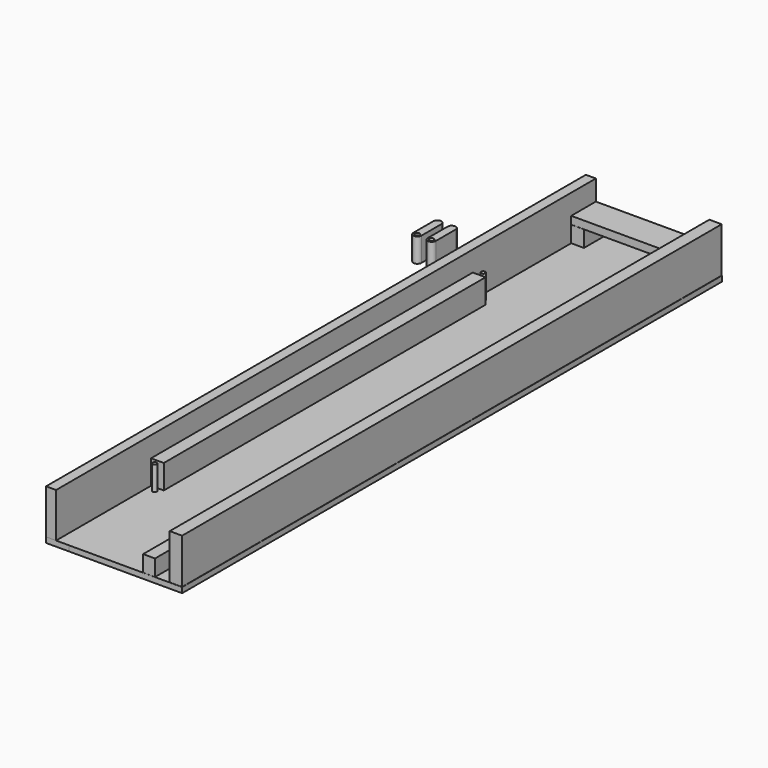
from build123d import *

# Parameters (mm, degrees)
F4_START      = 10.49274
F2_W          = 127.0645558834
F2_H          = 8.4992311895
F4_DEPTH      = 2.33426
F3_W          = 2.2401837632
F3_H          = 3.077831585
F5_DEPTH      = 65.3796
F5_DEPTH_BACK = 61.6966
F0_W          = 2.7783904225
F0_H          = 121.2976649404
F0_W_2        = 2.3746788502
F0_W_3        = 2.2473796271
F0_W_4        = 2.404211089
F0_H_2        = 75.7749117911
F0_W_5        = 13.9418463223
F0_H_3        = 5.8071650565
F0_H_4        = 16.4588093758
F0_H_5        = 15.6432054937
F0_W_6        = 1.8864730373
F0_R          = 0.4426564057
F0_R_2        = 0.4119393831
F6_DEPTH      = 1.016
F7_DEPTH      = 8.382
F8_DEPTH      = 4.5466
F9_DEPTH      = 4.5593
F1_R          = 0.4426564057
F10_DEPTH     = 4.5212
F11_START     = 3.09118
F11_DEPTH     = 1.45542
F12_DEPTH     = 3.0734
F13_DEPTH     = 3.0988


with BuildPart() as f4:
    # F2 (on Right) → F4 (new body)
    with BuildSketch(Plane.YZ.offset(F4_START)):
        with Locations((-1.8238723278, 4.2496155947)):
            Rectangle(F2_W, F2_H)
    extrude(amount=F4_DEPTH)


with BuildPart() as f5:
    # F3 (on Front) → F5 (new body, two sides)
    with BuildSketch(Plane.XZ) as f5_sk:
        with Locations((6.6253291443, 1.5389157925)):
            Rectangle(F3_W, F3_H)
    extrude(amount=F5_DEPTH)
    extrude(f5_sk.sketch, amount=-F5_DEPTH_BACK)


with BuildPart() as f6:
    # F0 (on Top) → F6 (new body)
    with BuildSketch(Plane.XY):
        Polygon((5.4682078771, 55.8997914195), (-8.4736384451, 55.8997914195), (-8.4736384451, 39.4409820437), (-10.8778495342, 39.4409820437), (-10.8778495342, 32.728895545), (-8.4736384451, 32.728895545), (-8.4736384451, -43.0460162461), (-10.8778495342, -43.0460162461), (-10.8778495342, -49.7546680272), (-8.4736384451, -49.7546680272), (-8.4736384451, -65.3978735209), (5.4682078771, -65.3978735209), align=None)
        with BuildLine():
            ThreePointArc((-10.2032869281, -44.0247099272), (-9.4427499575, -43.2126265159), (-8.69210988, -44.0338666908))
            Line((-8.69210988, -44.0338666908), (-8.69210988, -48.6504066161))
            ThreePointArc((-8.69210988, -48.6504066161), (-9.4366474908, -49.42785915), (-10.2032869281, -48.6721921138))
            Line((-10.2032869281, -48.6721921138), (-10.2032869281, -44.0247099272))
        make_face(mode=Mode.SUBTRACT)
        with BuildLine():
            ThreePointArc((-8.9480215684, 33.7755940855), (-9.708558539, 32.9635106741), (-10.4591986164, 33.784750849))
            Line((-10.4591986164, 33.784750849), (-10.4591986164, 38.4012907743))
            ThreePointArc((-10.4591986164, 38.4012907743), (-9.7146610056, 39.1787433082), (-8.9480215684, 38.423076272))
            Line((-8.9480215684, 38.423076272), (-8.9480215684, 33.7755940855))
        make_face(mode=Mode.SUBTRACT)
        with Locations((9.1047827154, -4.7490410507)):
            Rectangle(F0_W, F0_H)
        with Locations((11.6813173518, -4.7490410507)):
            Rectangle(F0_W_2, F0_H)
        with Locations((6.5918976907, -4.7490410507)):
            Rectangle(F0_W_3, F0_H)
        Polygon((-10.8778495342, 55.8997914195), (-12.7643225715, 55.8997914195), (-12.7643225715, -65.3978735209), (-10.8778495342, -65.3978735209), (-10.8778495342, -49.7546680272), (-10.8778495342, -43.0460162461), (-10.8778495342, 32.728895545), (-10.8778495342, 39.4409820437), align=None)
        with Locations((-9.6757439896, -5.1585603505)):
            Rectangle(F0_W_4, F0_H_2)
        with Locations((-1.502715284, 58.8033739477)):
            Rectangle(F0_W_5, F0_H_3)
        with Locations((-9.6757439896, 47.6703867316)):
            Rectangle(F0_W_4, F0_H_4)
        with Locations((-9.6757439896, -57.576270774)):
            Rectangle(F0_W_4, F0_H_5)
        with Locations((9.1047827154, 58.8033739477)):
            Rectangle(F0_W, F0_H_3)
        with Locations((-9.6757439896, 58.8033739477)):
            Rectangle(F0_W_4, F0_H_3)
        with Locations((11.6813173518, 58.8033739477)):
            Rectangle(F0_W_2, F0_H_3)
        with Locations((6.5918976907, 58.8033739477)):
            Rectangle(F0_W_3, F0_H_3)
        with Locations((-11.8210860528, 58.8033739477)):
            Rectangle(F0_W_6, F0_H_3)
        with BuildLine():
            Line((-10.4591986164, 38.4012907743), (-10.4591986164, 33.784750849))
            ThreePointArc((-10.4591986164, 33.784750849), (-9.708558539, 32.9635106741), (-8.9480215684, 33.7755940855))
            Line((-8.9480215684, 33.7755940855), (-8.9480215684, 38.423076272))
            ThreePointArc((-8.9480215684, 38.423076272), (-9.7146610056, 39.1787433082), (-10.4591986164, 38.4012907743))
        make_face()
        with Locations((-9.7039663198, 33.7213828511)):
            Circle(F0_R, mode=Mode.SUBTRACT)
        with BuildLine():
            Line((-8.69210988, -48.6504066161), (-8.69210988, -44.0338666908))
            ThreePointArc((-8.69210988, -44.0338666908), (-9.4427499575, -43.2126265159), (-10.2032869281, -44.0247099272))
            Line((-10.2032869281, -44.0247099272), (-10.2032869281, -48.6721921138))
            ThreePointArc((-10.2032869281, -48.6721921138), (-9.4366474908, -49.42785915), (-8.69210988, -48.6504066161))
        make_face()
        with Locations((-9.4473421767, -43.9704986929)):
            Circle(F0_R, mode=Mode.SUBTRACT)
        with Locations((-9.7039663198, 33.7213828511)):
            Circle(F0_R)
        with Locations((-9.7039663198, 33.7213828511)):
            Circle(F0_R_2, mode=Mode.SUBTRACT)
        with Locations((-9.4473421767, -43.9704986929)):
            Circle(F0_R)
        with Locations((-9.4473421767, -43.9704986929)):
            Circle(F0_R_2, mode=Mode.SUBTRACT)
        with Locations((-9.7039663198, 33.7213828511)):
            Circle(F0_R_2)
        with Locations((-9.4473421767, -43.9704986929)):
            Circle(F0_R_2)
    extrude(amount=-F6_DEPTH)

    # F0 (on Top) → F7 (join)
    with BuildSketch(Plane.XY):
        Polygon((-10.8778495342, 55.8997914195), (-12.7643225715, 55.8997914195), (-12.7643225715, -65.3978735209), (-10.8778495342, -65.3978735209), (-10.8778495342, -49.7546680272), (-10.8778495342, -43.0460162461), (-10.8778495342, 32.728895545), (-10.8778495342, 39.4409820437), align=None)
        with Locations((-11.8210860528, 58.8033739477)):
            Rectangle(F0_W_6, F0_H_3)
    extrude(amount=F7_DEPTH)

    # F0 (on Top) → F8 (join)
    with BuildSketch(Plane.XY):
        with Locations((-9.4473421767, -43.9704986929)):
            Circle(F0_R_2)
        with Locations((-9.7039663198, 33.7213828511)):
            Circle(F0_R_2)
    extrude(amount=F8_DEPTH)

    # F0 (on Top) → F9 (join)
    with BuildSketch(Plane.XY):
        with Locations((-9.6757439896, -5.1585603505)):
            Rectangle(F0_W_4, F0_H_2)
    extrude(amount=F9_DEPTH)

    # F0 (on Top) → F12 (join)
    with BuildSketch(Plane.XY):
        with Locations((-9.6757439896, 58.8033739477)):
            Rectangle(F0_W_4, F0_H_3)
    extrude(amount=F12_DEPTH)


with BuildPart() as f10:
    # F1 (on Top) → F10 (new body)
    with BuildSketch(Plane.XY):
        with BuildLine():
            Line((-22.9663701724, 41.8953957223), (-22.9663701724, 37.278855797))
            ThreePointArc((-22.9663701724, 37.278855797), (-22.215730095, 36.4576156221), (-21.4551931244, 37.2696990334))
            Line((-21.4551931244, 37.2696990334), (-21.4551931244, 41.91718122))
            ThreePointArc((-21.4551931244, 41.91718122), (-22.2218325616, 42.6728482562), (-22.9663701724, 41.8953957223))
        make_face()
        with Locations((-22.2111378758, 37.2154877991)):
            Circle(F1_R, mode=Mode.SUBTRACT)
    extrude(amount=F10_DEPTH)


with BuildPart() as f10b:
    # F1 (on Top) → F10, piece 2 (new body)
    with BuildSketch(Plane.XY):
        with BuildLine():
            Line((-25.6770776581, 41.9091643952), (-25.6770776581, 37.2926244699))
            ThreePointArc((-25.6770776581, 37.2926244699), (-24.9264375807, 36.471384295), (-24.16590061, 37.2834677063))
            Line((-24.16590061, 37.2834677063), (-24.16590061, 41.9309498929))
            ThreePointArc((-24.16590061, 41.9309498929), (-24.9325400473, 42.6866169291), (-25.6770776581, 41.9091643952))
        make_face()
        with Locations((-24.9218453614, 37.229256472)):
            Circle(F1_R, mode=Mode.SUBTRACT)
    extrude(amount=F10_DEPTH)


with BuildPart() as f11:
    # F0 (on Top) → F11 (new body)
    with BuildSketch(Plane.XY.offset(F11_START)):
        with Locations((9.1047827154, 58.8033739477)):
            Rectangle(F0_W, F0_H_3)
        with Locations((6.5918976907, 58.8033739477)):
            Rectangle(F0_W_3, F0_H_3)
        with Locations((-1.502715284, 58.8033739477)):
            Rectangle(F0_W_5, F0_H_3)
        with Locations((-9.6757439896, 58.8033739477)):
            Rectangle(F0_W_4, F0_H_3)
    extrude(amount=F11_DEPTH)


with BuildPart() as f13:
    # F0 (on Top) → F13 (new body)
    with BuildSketch(Plane.XY):
        with Locations((9.1047827154, 58.8033739477)):
            Rectangle(F0_W, F0_H_3)
    extrude(amount=F13_DEPTH)


solid = Compound([f4.part, f5.part, f6.part, f10.part, f10b.part, f11.part, f13.part])
